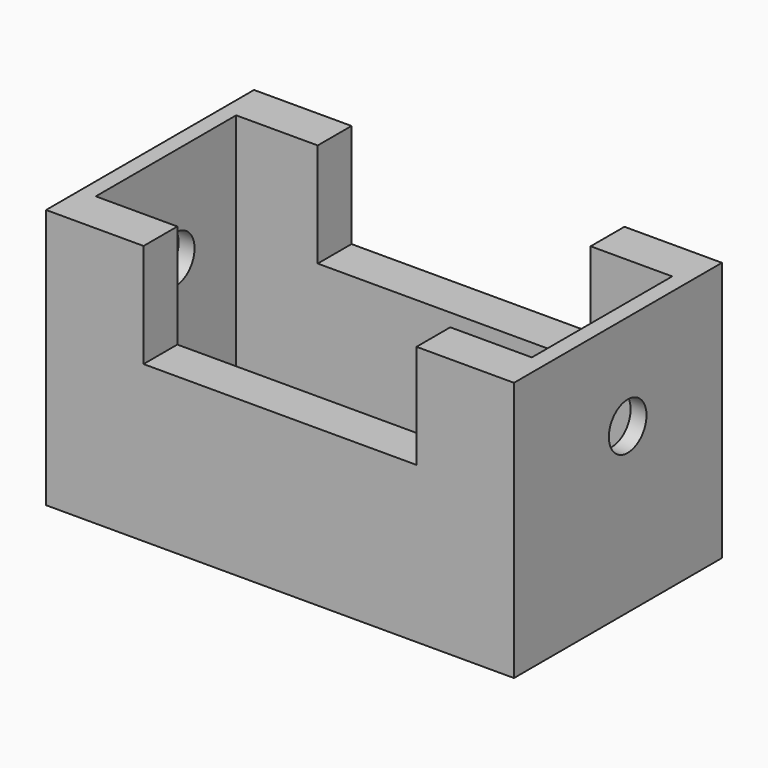
from build123d import *

# Parameters (mm, degrees)
F1_DEPTH  = 50.8
F2_W      = 15.9388422537
F2_H      = 34.29
F4_DEPTH  = 25.4
F3_W      = 26.67
F3_H      = 34.29
F5_DEPTH  = 25.4
F6_DEPTH  = 25.4
F7_W      = 15.9388422537
F7_H      = 34.29
F8_DEPTH  = 5.08
F9_R      = 4.6036191434
F10_DEPTH = 25.4
F12_DEPTH = 25.4


with BuildPart() as f1:
    # F0 (on Front) → F1 (new body)
    with BuildSketch(Plane.XZ):
        Polygon((0, -30.48), (0, 0), (-26.67, 0), (-26.67, 20.32), (-45.72, 20.32), (-45.72, -30.48), align=None)
    extrude(amount=-F1_DEPTH)

    # F2 (on face) → F4 (cut)
    with BuildSketch(Plane.XY.offset(20.32)):
        with Locations((-34.6394211268, 25.4)):
            Rectangle(F2_W, F2_H)
    extrude(amount=-F4_DEPTH, mode=Mode.SUBTRACT)

    # F3 (on face) → F5 (cut)
    with BuildSketch(Plane.XY):
        with Locations((-13.335, 25.4)):
            Rectangle(F3_W, F3_H)
    extrude(amount=-F5_DEPTH, mode=Mode.SUBTRACT)

    # F6 (cut): a face of the model
    f6_faces = [f1.faces().sort_by_distance(p)[0] for p in [
        (-34.6394211268, 25.4, -5.08),
    ]]
    extrude(f6_faces, amount=-F6_DEPTH, mode=Mode.SUBTRACT)

    # F7 (on face) → F8 (join)
    with BuildSketch(Plane(origin=(0, 0, -30.48), x_dir=(1, 0, 0), z_dir=(0, 0, -1))):
        with Locations((-34.6394211268, -25.4)):
            Rectangle(F7_W, F7_H)
    extrude(amount=-F8_DEPTH)

    # F9 (on face) → F10 (cut)
    with BuildSketch(Plane.YZ.offset(-42.6088422537)):
        with Locations((27.777671814, 1.571879955)):
            Circle(F9_R)
    extrude(amount=-F10_DEPTH, mode=Mode.SUBTRACT)

    # F11: F1 across face


with BuildPart() as f1_1:
    add(f1.part)
    add(f1.part.mirror(Plane(origin=(0, 25.4, -18.5057142857), x_dir=(0, 1, 0), z_dir=(1, 0, 0))))

    # F12 (cut): a face of the model
    f12_faces = [f1_1.faces().sort_by_distance(p)[0] for p in [
        (0, 25.4, -25.4),
    ]]
    extrude(f12_faces, amount=-F12_DEPTH, mode=Mode.SUBTRACT)


solid = f1_1.part
